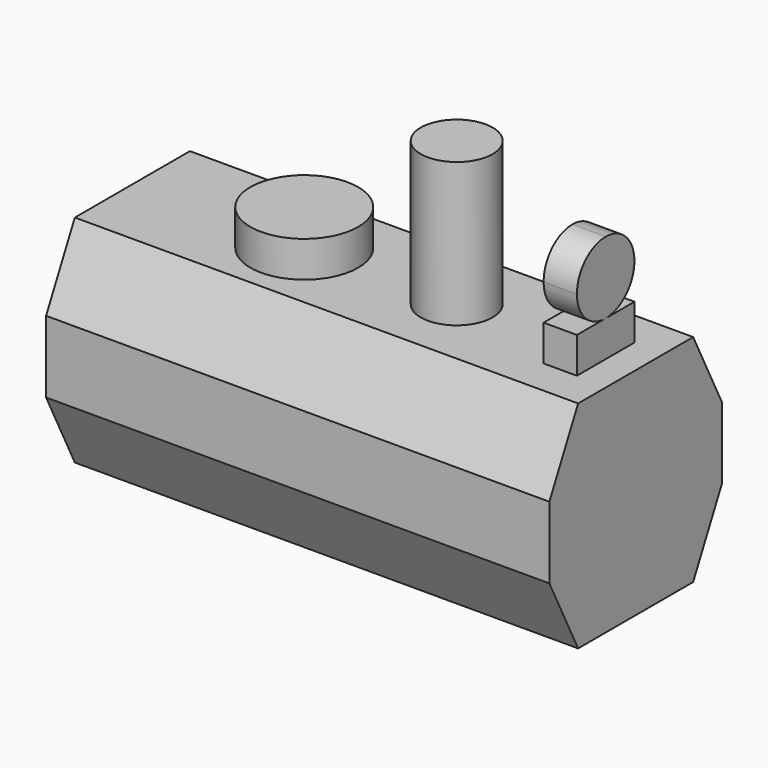
from build123d import *

# Parameters (mm, degrees)
F0_W     = 88.9
F0_H     = 38.1
F1_DEPTH = 38.1
F3_DEPTH = 88.901
F4_R     = 6.35
F5_DEPTH = 25.4
F4_R_2   = 9.525
F6_DEPTH = 6.35
F4_W     = 5.880814
F4_H     = 12.7
F7_DEPTH = 19.05
F9_DEPTH = 5.880814


with BuildPart() as f1:
    # F0 (on Front) → F1 (new body)
    with BuildSketch(Plane.XZ):
        with Locations((3.249921, 12.750378)):
            Rectangle(F0_W, F0_H)
    extrude(amount=F1_DEPTH)

    # F2 (on face) → F3 (cut, through all)
    with BuildSketch(Plane(origin=(-41.200079, 0, 0), x_dir=(0, -1, 0), z_dir=(-1, 0, 0))):
        Polygon((0, 31.800378), (0, 19.100378), (6.35, 31.800378), align=None)
        Polygon((6.35, -6.299622), (0, 6.400378), (0, -6.299622), align=None)
        Polygon((38.1, 6.400378), (31.75, -6.299622), (38.1, -6.299622), align=None)
        Polygon((38.1, 31.800378), (31.75, 31.800378), (38.1, 19.100378), align=None)
    extrude(amount=-F3_DEPTH, mode=Mode.SUBTRACT)

    # F4 (on face) → F5 (join)
    with BuildSketch(Plane.XY.offset(31.800378)):
        with Locations((16.094854, -19.05)):
            Circle(F4_R)
    extrude(amount=F5_DEPTH)

    # F4 (on face) → F6 (join)
    with BuildSketch(Plane.XY.offset(31.800378)):
        with Locations((-10.833076, -19.05)):
            Circle(F4_R_2)
    extrude(amount=F6_DEPTH)

    # F4 (on face) → F7 (join)
    with BuildSketch(Plane.XY.offset(31.800378)):
        with Locations((39.463347, -19.05)):
            Rectangle(F4_W, F4_H)
    extrude(amount=F7_DEPTH)

    # F8 (on face) → F9 (cut, through all)
    with BuildSketch(Plane.YZ.offset(42.403754)):
        with BuildLine():
            Line((-25.4, 50.850378), (-25.4, 44.500378))
            ThreePointArc((-25.4, 44.500378), (-23.540128, 48.990506), (-19.05, 50.850378))
            Line((-19.05, 50.850378), (-25.4, 50.850378))
        make_face()
        with BuildLine():
            Line((-25.4, 44.500378), (-25.4, 38.150378))
            Line((-25.4, 38.150378), (-19.05, 38.150378))
            ThreePointArc((-19.05, 38.150378), (-23.540128, 40.01025), (-25.4, 44.500378))
        make_face()
        with BuildLine():
            ThreePointArc((-12.7, 44.500378), (-14.559872, 40.01025), (-19.05, 38.150378))
            Line((-19.05, 38.150378), (-12.7, 38.150378))
            Line((-12.7, 38.150378), (-12.7, 44.500378))
        make_face()
        with BuildLine():
            ThreePointArc((-19.05, 50.850378), (-14.559872, 48.990506), (-12.7, 44.500378))
            Line((-12.7, 44.500378), (-12.7, 50.850378))
            Line((-12.7, 50.850378), (-19.05, 50.850378))
        make_face()
    extrude(amount=-F9_DEPTH, mode=Mode.SUBTRACT)


solid = f1.part
